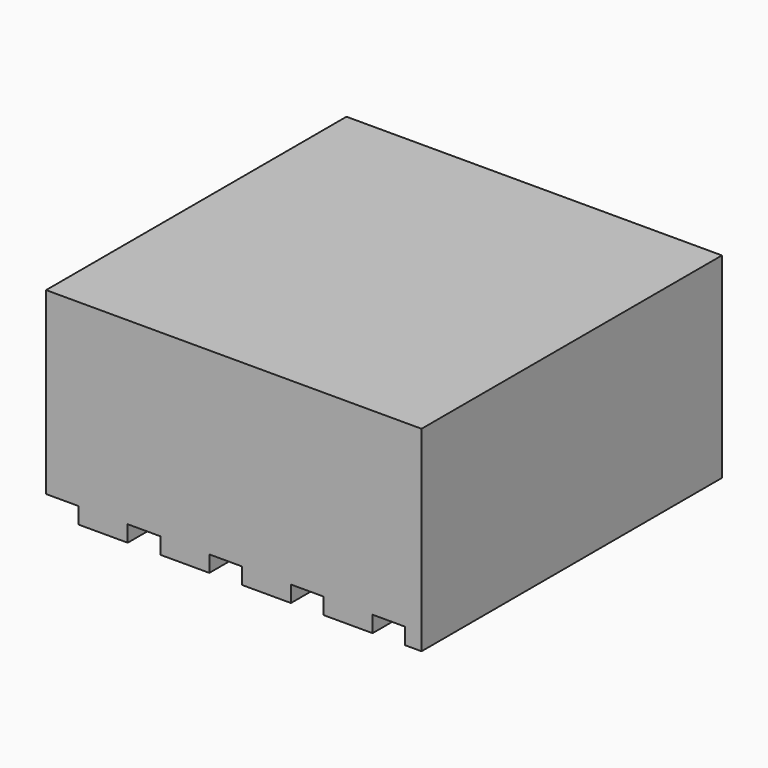
from build123d import *

# Parameters (mm, degrees)
BOX015_W     = 2
BOX015_H     = 23
BOX015_DEPTH = 1
BOX014_W     = 2
BOX014_H     = 23
BOX014_DEPTH = 1
BOX013_W     = 2
BOX013_H     = 23
BOX013_DEPTH = 1
BOX012_W     = 2
BOX012_H     = 23
BOX012_DEPTH = 1
BOX016_W     = 2
BOX016_H     = 23
BOX016_DEPTH = 1
BOX011_W     = 23
BOX011_H     = 23
BOX011_DEPTH = 12


with BuildPart() as cube015:
    # Box015 → Box015 (new body)
    with BuildSketch(Plane(origin=(3.5, -11.5, 0), x_dir=(1, 0, 0), z_dir=(0, 0, 1))):
        with Locations((1, 11.5)):
            Rectangle(BOX015_W, BOX015_H)
    extrude(amount=BOX015_DEPTH)


with BuildPart() as cube014:
    # Box014 → Box014 (new body)
    with BuildSketch(Plane(origin=(-1.5, -11.5, 0), x_dir=(1, 0, 0), z_dir=(0, 0, 1))):
        with Locations((1, 11.5)):
            Rectangle(BOX014_W, BOX014_H)
    extrude(amount=BOX014_DEPTH)


with BuildPart() as cube013:
    # Box013 → Box013 (new body)
    with BuildSketch(Plane(origin=(-6.5, -11.5, 0), x_dir=(1, 0, 0), z_dir=(0, 0, 1))):
        with Locations((1, 11.5)):
            Rectangle(BOX013_W, BOX013_H)
    extrude(amount=BOX013_DEPTH)


with BuildPart() as cube012:
    # Box012 → Box012 (new body)
    with BuildSketch(Plane(origin=(-11.5, -11.5, 0), x_dir=(1, 0, 0), z_dir=(0, 0, 1))):
        with Locations((1, 11.5)):
            Rectangle(BOX012_W, BOX012_H)
    extrude(amount=BOX012_DEPTH)


with BuildPart() as fusion011:
    # Box016 → Box016 (new body)
    with BuildSketch(Plane(origin=(8.5, -11.5, 0), x_dir=(1, 0, 0), z_dir=(0, 0, 1))):
        with Locations((1, 11.5)):
            Rectangle(BOX016_W, BOX016_H)
    extrude(amount=BOX016_DEPTH)

    # Fusion011: union Cube015, Cube014, Cube013, Cube012
    add(cube015.part)
    add(cube014.part)
    add(cube013.part)
    add(cube012.part)


with BuildPart() as rubber_pad:
    # Box011 → Box011 (new body)
    with BuildSketch(Plane(origin=(-11.5, -11.5, 0), x_dir=(1, 0, 0), z_dir=(0, 0, 1))):
        with Locations((11.5, 11.5)):
            Rectangle(BOX011_W, BOX011_H)
    extrude(amount=BOX011_DEPTH)

    # Cut002002: cut Fusion011
    add(fusion011.part, mode=Mode.SUBTRACT)


solid = rubber_pad.part
